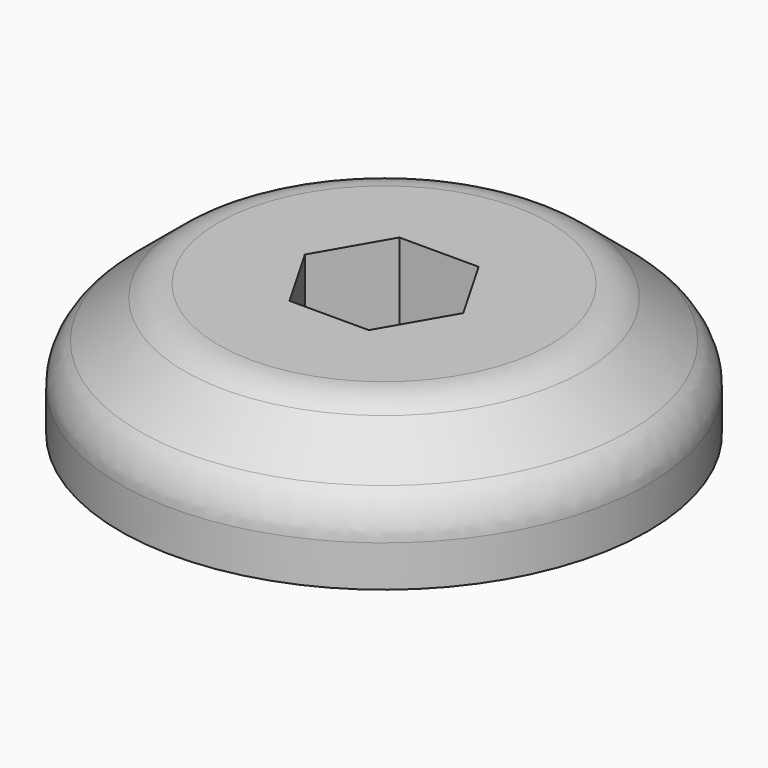
from build123d import *

# Parameters (mm, degrees)
F0_R     = 20
F1_DEPTH = 10
F3_DEPTH = 6
F4_SIZE2 = 5
F4_SIZE  = 6
F5_R     = 4


with BuildPart() as f1:
    # F0 (on Top) → F1 (new body)
    with BuildSketch(Plane.XY):
        Circle(F0_R)
    extrude(amount=F1_DEPTH)

    # F2 (on face) → F3 (cut)
    with BuildSketch(Plane.XY.offset(10)):
        Polygon((3.0022213998, -5.2), (6.0044427996, 0), (3.0022213998, 5.2), (-3.0022213998, 5.2), (-6.0044427996, 0), (-3.0022213998, -5.2), align=None)
    extrude(amount=-F3_DEPTH, mode=Mode.SUBTRACT)

    # F4
    f4_edges = [f1.edges().sort_by_distance(p)[0] for p in [
        (-20, 0, 10),
    ]]
    f4_side = f1.faces().sort_by_distance((-19.434315, 0, 10))[0]
    chamfer(f4_edges, length=F4_SIZE, length2=F4_SIZE2, reference=f4_side)

    # F5
    f5_edges = [f1.edges().sort_by_distance(p)[0] for p in [
        (-14, 0, 10),
        (-20, 0, 5),
    ]]
    fillet(f5_edges, radius=F5_R)


solid = f1.part
